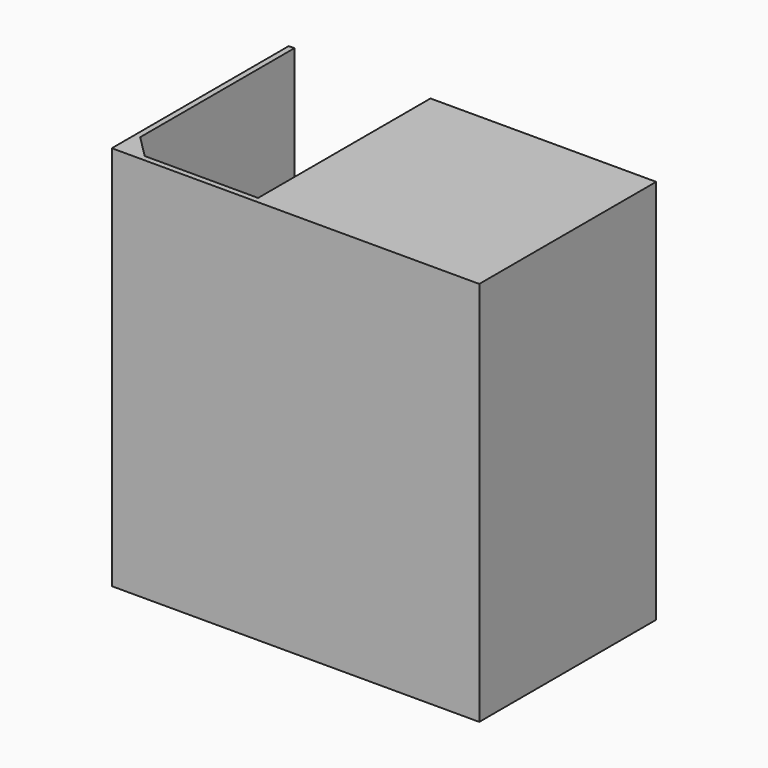
from build123d import *

# Parameters (mm, degrees)
F1_DEPTH = 5
F3_DEPTH = 335
F4_W     = 5
F4_H     = 335
F5_DEPTH = 319
F7_DEPTH = 335


with BuildPart() as f1:
    # F0 (on Top) → F1 (new body)
    with BuildSketch(Plane.XY):
        Polygon((-324, 0), (0, 0), (0, 195), (-199, 195), (-199, 5), (-299, 5), (-319, 25), (-319, 195), (-324, 195), align=None)
    extrude(amount=F1_DEPTH)

    # F2 (on face) → F3 (join)
    with BuildSketch(Plane(origin=(0, 0, 0), x_dir=(1, 0, 0), z_dir=(0, 0, -1))):
        Polygon((-319, 0), (-324, 0), (-324, -195), (-319, -195), (-319, -25), align=None)
    extrude(amount=F3_DEPTH)

    # F4 (on face) → F5 (join, through all)
    with BuildSketch(Plane.YZ.offset(-319)):
        with Locations((2.5, -167.5)):
            Rectangle(F4_W, F4_H)
    extrude(amount=F5_DEPTH)

    # F6 (on face) → F7 (join, through all)
    with BuildSketch(Plane(origin=(0, 0, 0), x_dir=(1, 0, 0), z_dir=(0, 0, -1))):
        Polygon((0, -195), (0, -5), (-5, -5), (-5, -190), (-199, -190), (-199, -195), align=None)
    extrude(amount=F7_DEPTH)


solid = f1.part
